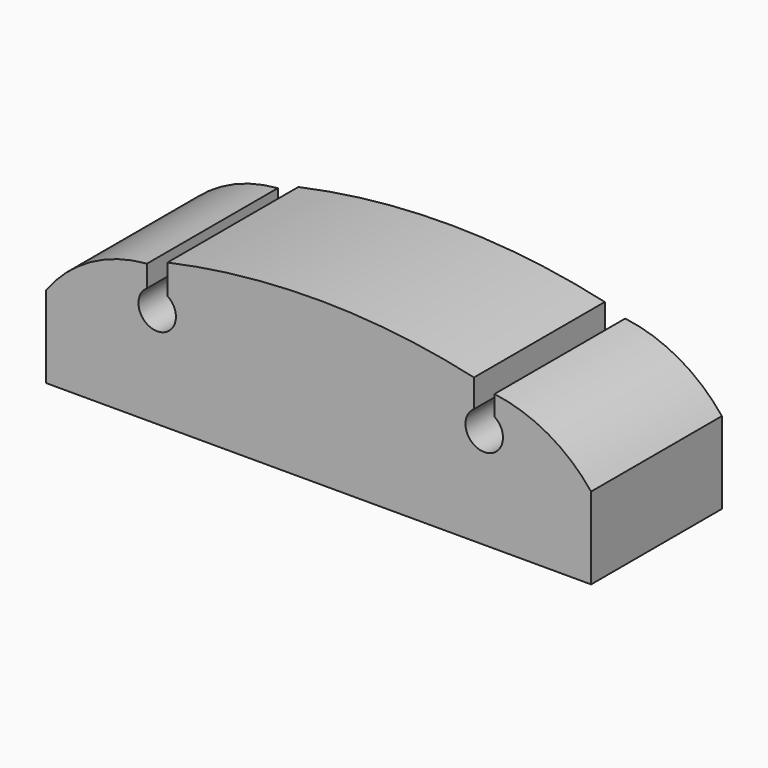
from build123d import *

# Parameters (mm, degrees)
F1_DEPTH = 19.05


with BuildPart() as f1:
    # F0 (on Front) → F1 (new body, symmetric)
    with BuildSketch(Plane.XZ):
        with BuildLine():
            Line((-64.908554, 19.05), (-64.908554, 0))
            Line((-64.908554, 0), (62.091446, 0))
            Line((62.091446, 0), (62.091446, 19.05))
            ThreePointArc((62.091446, 19.05), (52.072089, 27.594412), (39.573199, 31.738351))
            Line((39.573199, 31.738351), (39.573199, 27.077458))
            ThreePointArc((39.573199, 27.077458), (37.185599, 19.05), (34.797999, 27.077458))
            Line((34.797999, 27.077458), (34.797999, 33.581692))
            ThreePointArc((34.797999, 33.581692), (-0.892802, 37.701436), (-36.622344, 33.932436))
            Line((-36.622344, 33.932436), (-36.622344, 27.072646))
            ThreePointArc((-36.622344, 27.072646), (-39.026089, 19.050009), (-41.397544, 27.08225))
            Line((-41.397544, 27.08225), (-41.397544, 32.143273))
            ThreePointArc((-41.397544, 32.143273), (-54.58379, 28.165755), (-64.908554, 19.05))
        make_face()
    extrude(amount=F1_DEPTH, both=True)


solid = f1.part
